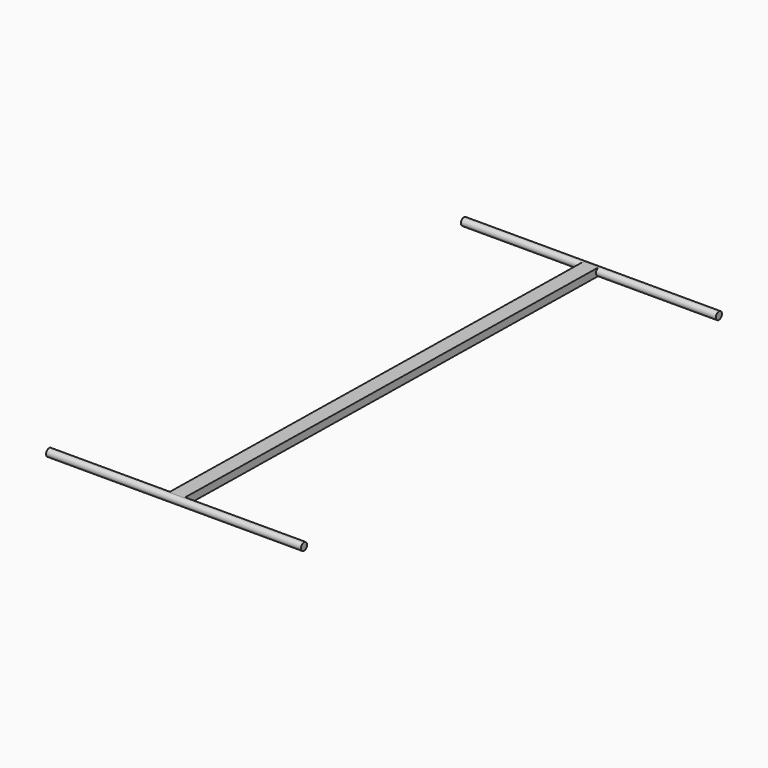
from build123d import *

# Parameters (mm, degrees)
F2_R     = 25
F3_DEPTH = 1679
F5_DEPTH = 50


with BuildPart() as f3:
    # F2 (on plane+point) → F3 (new body, through all)
    with BuildSketch(Plane.YZ.offset(839.5)):
        with Locations((-549, 50)):
            Circle(F2_R)
    extrude(amount=-F3_DEPTH)



with BuildPart() as f3b:
    # F2 (on plane+point) → F3, piece 2 (new body, through all)
    with BuildSketch(Plane.YZ.offset(839.5)):
        with Locations((2866, 0)):
            Circle(F2_R)
    extrude(amount=-F3_DEPTH)


with BuildPart() as f3_1:
    add(f3.part)

    add(f3b.part)  # F5 merges F3b
    # F4 (on Right) → F5 (join, symmetric)
    with BuildSketch(Plane.YZ):
        with BuildLine():
            Line((2866.3659929845, 24.9973208391), (-548.6340070155, 74.9973208391))
            ThreePointArc((-548.6340070155, 74.9973208391), (-573.9973208391, 50.3659929845), (-549.3659929845, 25.0026791609))
            Line((-549.3659929845, 25.0026791609), (2865.6340070155, -24.9973208391))
            ThreePointArc((2865.6340070155, -24.9973208391), (2890.9973208391, -0.3659929845), (2866.3659929845, 24.9973208391))
        make_face()
    extrude(amount=F5_DEPTH, both=True)


solid = f3_1.part
